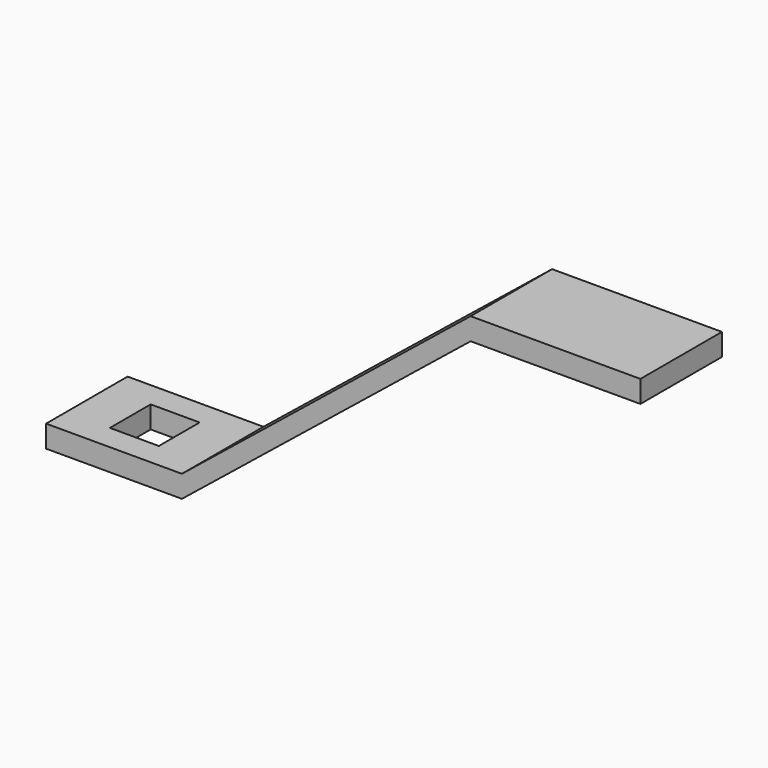
from build123d import *

# Parameters (mm, degrees)
F1_DEPTH = 6
F2_W     = 2.88366
F2_H     = 3
F3_DEPTH = 1.3


with BuildPart() as f1:
    # F0 (on Front) → F1 (new body)
    with BuildSketch(Plane.XZ):
        Polygon((-4, 1.3), (-4, 0), (4, 0), (21, 13.7), (31, 13.7), (31, 15), (21, 15), (4, 1.3), (0, 1.3), align=None)
    extrude(amount=F1_DEPTH)

    # F2 (on face) → F3 (cut)
    with BuildSketch(Plane.XY.offset(1.3)):
        with Locations((0, -3)):
            Rectangle(F2_W, F2_H)
    extrude(amount=-F3_DEPTH, mode=Mode.SUBTRACT)


solid = f1.part
